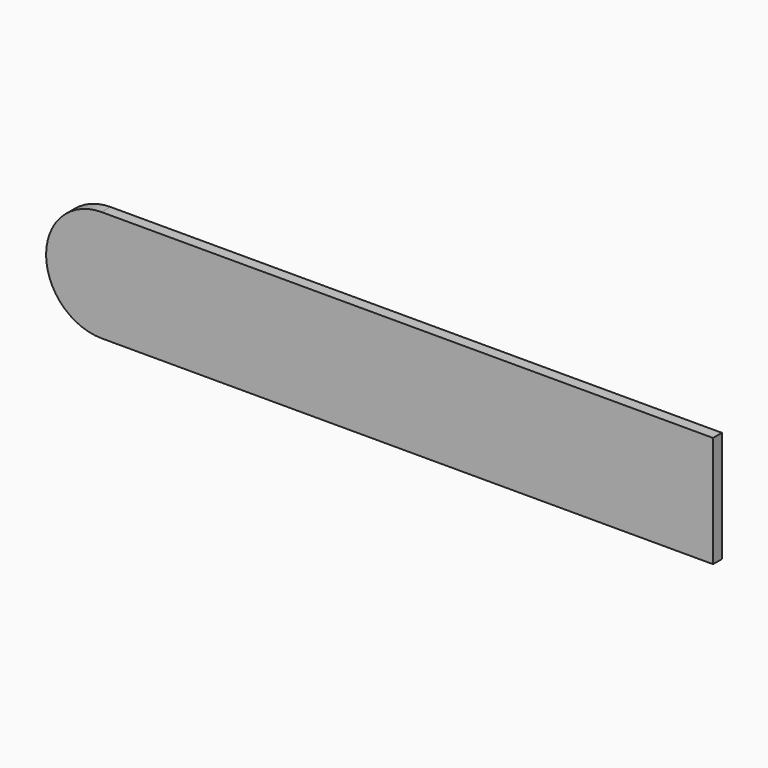
from build123d import *

# Parameters (mm, degrees)
F1_DEPTH = 1.27


with BuildPart() as f1:
    # F0 (on Front) → F1 (new body)
    with BuildSketch(Plane.XZ):
        with BuildLine():
            Line((27.283476, 52.843539), (-42.566524, 52.843539))
            ThreePointArc((-42.566524, 52.843539), (-47.056652, 50.983667), (-48.916524, 46.493539))
            ThreePointArc((-48.916524, 46.493539), (-47.056652, 42.003411), (-42.566524, 40.143539))
            Line((-42.566524, 40.143539), (27.283476, 40.143539))
            Line((27.283476, 40.143539), (27.283476, 52.843539))
        make_face()
    extrude(amount=F1_DEPTH)


solid = f1.part
